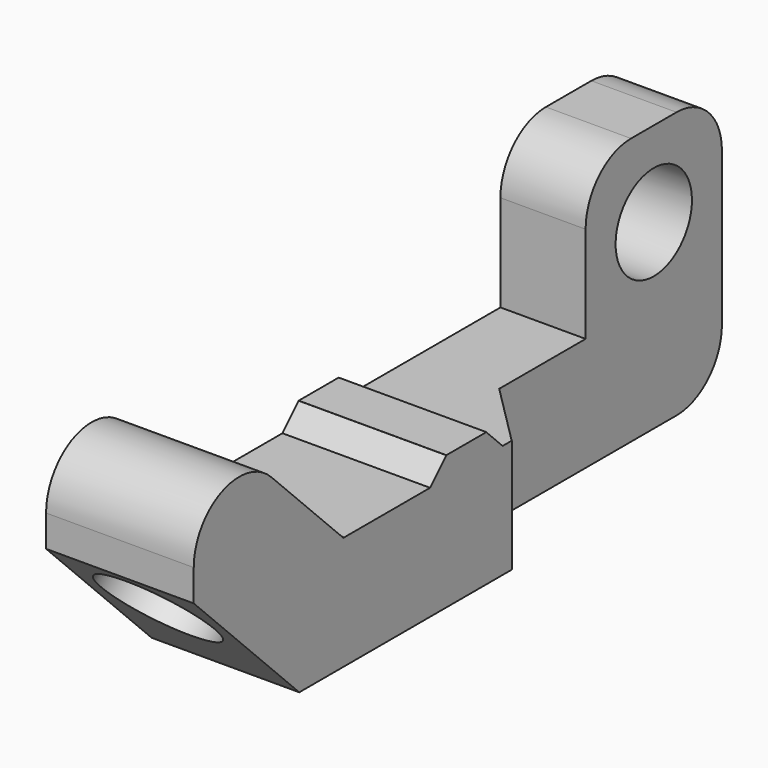
from build123d import *

# Parameters (mm, degrees)
BOX013_W                    = 13
BOX013_H                    = 4.4
BOX013_DEPTH                = 1.8
CYLINDER007_R               = 5
CYLINDER007_DEPTH           = 6
CYLINDER007_PLACEMENT_ANGLE = 45
BOX011_W                    = 13
BOX011_H                    = 30
BOX011_DEPTH                = 50
BOX011_PLACEMENT_ANGLE      = 45
CYLINDER006_R               = 2.7
CYLINDER006_DEPTH           = 20
CYLINDER006_PLACEMENT_ANGLE = 45
BOX009_W                    = 13
BOX009_H                    = 10
BOX009_DEPTH                = 10
BOX008_W                    = 13
BOX008_H                    = 30
BOX008_DEPTH                = 50
BOX008_PLACEMENT_ANGLE      = 45
BOX007_W                    = 13
BOX007_H                    = 20
BOX007_DEPTH                = 30
CYLINDER005_R               = 4.2
CYLINDER005_DEPTH           = 10
BOX006_W                    = 7.5
BOX006_H                    = 15
BOX006_DEPTH                = 14
BOX005_W                    = 7.5
BOX005_H                    = 65
BOX005_DEPTH                = 10
BOX010_W                    = 5.5
BOX010_H                    = 35
BOX010_DEPTH                = 10
FILLET004_R                 = 5
CHAMFER001_SIZE             = 5.49
CHAMFER002_SIZE             = 1.79


with BuildPart() as cube009:
    # Box013 → Box013 (new body)
    with BuildSketch(Plane(origin=(0, 7.8, 0), x_dir=(1, 0, 0), z_dir=(0, 0, 1))):
        with Locations((6.5, 2.2)):
            Rectangle(BOX013_W, BOX013_H)
    extrude(amount=BOX013_DEPTH)


with BuildPart() as cylinder007:
    # Cylinder007 → Cylinder007 (new body)
    with BuildSketch(Plane.XY):
        Circle(CYLINDER007_R)
    extrude(amount=CYLINDER007_DEPTH)


with BuildPart() as cylinder007_1:
    # Cylinder007 placement: moved
    add(cylinder007.part.moved(Location((6.5, -15.970563, -2.727922))).rotate(Axis((6.5, -15.970563, -2.727922), (-1, 0, 0)), CYLINDER007_PLACEMENT_ANGLE))


with BuildPart() as box011:
    # Box011 → Box011 (new body)
    with BuildSketch(Plane.XY):
        with Locations((6.5, 15)):
            Rectangle(BOX011_W, BOX011_H)
    extrude(amount=BOX011_DEPTH)


with BuildPart() as box011_1:
    # Box011 placement: moved
    add(box011.part.moved(Location((0, -24.041631, -36.769553))).rotate(Axis((0, -24.041631, -36.769553), (1, 0, 0)), BOX011_PLACEMENT_ANGLE))


with BuildPart() as cylinder006:
    # Cylinder006 → Cylinder006 (new body)
    with BuildSketch(Plane.XY):
        Circle(CYLINDER006_R)
    extrude(amount=CYLINDER006_DEPTH)


with BuildPart() as cylinder006_1:
    # Cylinder006 placement: moved
    add(cylinder006.part.moved(Location((6.5, -22.334524, -9.091883))).rotate(Axis((6.5, -22.334524, -9.091883), (-1, 0, 0)), CYLINDER006_PLACEMENT_ANGLE))


with BuildPart() as cube008:
    # Box009 → Box009 (new body)
    with BuildSketch(Plane(origin=(0, -3.5, -0.5), x_dir=(1, 0, 0), z_dir=(0, 0, 1))):
        with Locations((6.5, 5)):
            Rectangle(BOX009_W, BOX009_H)
    extrude(amount=BOX009_DEPTH)


with BuildPart() as cube007:
    # Box008 → Box008 (new body)
    with BuildSketch(Plane.XY):
        with Locations((6.5, 15)):
            Rectangle(BOX008_W, BOX008_H)
    extrude(amount=BOX008_DEPTH)


with BuildPart() as cube007_1:
    # Box008 placement: moved
    add(cube007.part.moved(Location((0, -3.535534, 0))).rotate(Axis((0, -3.535534, 0), (1, 0, 0)), BOX008_PLACEMENT_ANGLE))


with BuildPart() as cut005:
    # Box007 → Box007 (new body)
    with BuildSketch(Plane(origin=(0, -20, -0.5), x_dir=(1, 0, 0), z_dir=(0, 0, 1))):
        with Locations((6.5, 10)):
            Rectangle(BOX007_W, BOX007_H)
    extrude(amount=BOX007_DEPTH)

    # Cut004: cut Cube007
    add(cube007_1.part, mode=Mode.SUBTRACT)

    # Cut005: cut Cube008-
    add(cube008.part, mode=Mode.SUBTRACT)


with BuildPart() as cylinder005:
    # Cylinder005 → Cylinder005 (new body)
    with BuildSketch(Plane(origin=(0, 37.5, 6), x_dir=(0, 0, -1), z_dir=(1, 0, 0))):
        Circle(CYLINDER005_R)
    extrude(amount=CYLINDER005_DEPTH)


with BuildPart() as cube005:
    # Box006 → Box006 (new body)
    with BuildSketch(Plane(origin=(0, 30, -0.5), x_dir=(1, 0, 0), z_dir=(0, 0, 1))):
        with Locations((3.75, 7.5)):
            Rectangle(BOX006_W, BOX006_H)
    extrude(amount=BOX006_DEPTH)


with BuildPart() as cut003:
    # Box005 → Box005 (new body)
    with BuildSketch(Plane(origin=(0, -20, -10), x_dir=(1, 0, 0), z_dir=(0, 0, 1))):
        with Locations((3.75, 32.5)):
            Rectangle(BOX005_W, BOX005_H)
    extrude(amount=BOX005_DEPTH)

    # Fusion003: union Cube005+
    add(cube005.part)

    # Cut003: cut Cylinder005-
    add(cylinder005.part, mode=Mode.SUBTRACT)


with BuildPart() as body001:
    # Box010 → Box010 (new body)
    with BuildSketch(Plane(origin=(7.5, -20, -10), x_dir=(1, 0, 0), z_dir=(0, 0, 1))):
        with Locations((2.75, 17.5)):
            Rectangle(BOX010_W, BOX010_H)
    extrude(amount=BOX010_DEPTH)

    # Fusion004: union Cut005, Cut003
    add(cut005.part)
    add(cut003.part)

    # Cut006: cut Cylinder006-
    add(cylinder006_1.part, mode=Mode.SUBTRACT)

    # Cut007: cut Box011
    add(box011_1.part, mode=Mode.SUBTRACT)

    # Cut009: cut Cylinder007
    add(cylinder007_1.part, mode=Mode.SUBTRACT)

    # Fusion005: union Cube009
    add(cube009.part)

    # Fillet004
    fillet004_edges = [body001.edges().sort_by_distance(p)[0] for p in [
        (3.75, 45, 13.5),
        (3.75, 30, 13.5),
        (6.5, -20, 16.464466),
        (3.75, 45, -10),
    ]]
    fillet(fillet004_edges, radius=FILLET004_R)

    # Chamfer001
    chamfer001_edges = [body001.edges().sort_by_distance(p)[0] for p in [
        (7.5, 15, -5),
    ]]
    chamfer(chamfer001_edges, length=CHAMFER001_SIZE)

    # Chamfer002
    chamfer002_edges = [body001.edges().sort_by_distance(p)[0] for p in [
        (10.25, 12.2, 0),
        (3.75, 12.2, 0),
        (3.75, 7.8, 0),
        (10.25, 7.8, 0),
    ]]
    chamfer(chamfer002_edges, length=CHAMFER002_SIZE)


solid = body001.part
